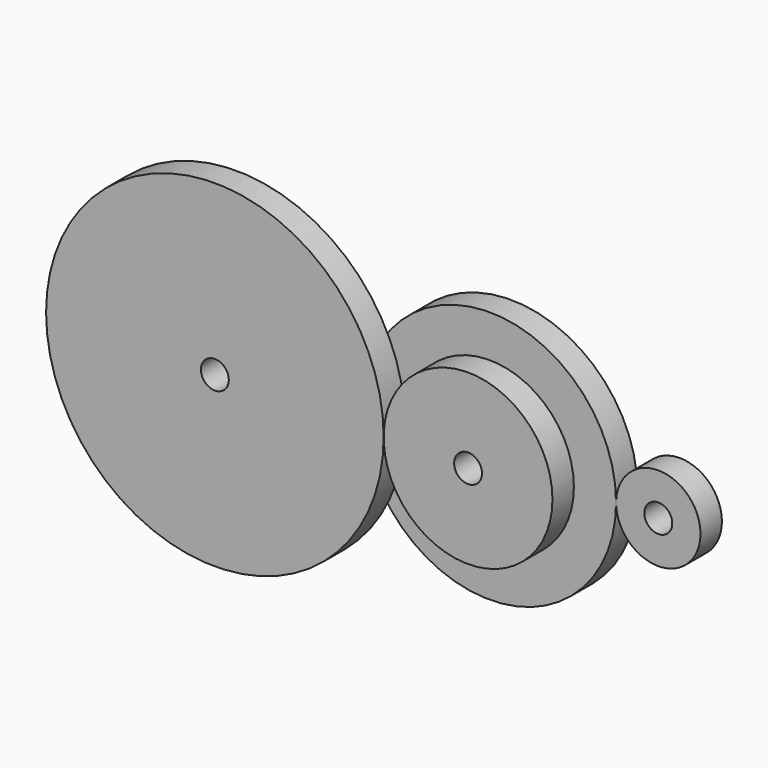
from build123d import *

# Parameters (mm, degrees)
F0_R     = 1.651
F1_DEPTH = 3.175
F0_R_2   = 14.99997
F0_R_3   = 10.000005
F2_DEPTH = 3.175
F3_DEPTH = 6.35
F4_R     = 19.99996
F4_R_2   = 1.651
F5_DEPTH = 3.175


with BuildPart() as f1:
    # F0 (on Front) → F1 (new body)
    with BuildSketch(Plane.XZ):
        with BuildLine():
            ThreePointArc((-5.000003, 0), (0, -5.000003), (5.000003, 0))
            ThreePointArc((5.000003, 0), (0, 5.000003), (-5.000003, 0))
        make_face()
        Circle(F0_R, mode=Mode.SUBTRACT)
    extrude(amount=F1_DEPTH)


with BuildPart() as f2:
    # F0 (on Front) → F2 (new body)
    with BuildSketch(Plane.XZ):
        with Locations((-19.999973, 0)):
            Circle(F0_R_2)
        with Locations((-19.999973, 0)):
            Circle(F0_R_3, mode=Mode.SUBTRACT)
    extrude(amount=F2_DEPTH)


with BuildPart() as f3:
    # F0 (on Front) → F3 (new body)
    with BuildSketch(Plane.XZ):
        with Locations((-19.999973, 0)):
            Circle(F0_R_3)
        with Locations((-19.999973, 0)):
            Circle(F0_R, mode=Mode.SUBTRACT)
    extrude(amount=F3_DEPTH)


with BuildPart() as f5:
    # F4 (on face) → F5 (new body)
    with BuildSketch(Plane.XZ.offset(3.175)):
        with Locations((-49.999938, 0)):
            Circle(F4_R)
        with Locations((-49.999938, 0)):
            Circle(F4_R_2, mode=Mode.SUBTRACT)
    extrude(amount=F5_DEPTH)


solid = Compound([f1.part, f2.part, f3.part, f5.part])
